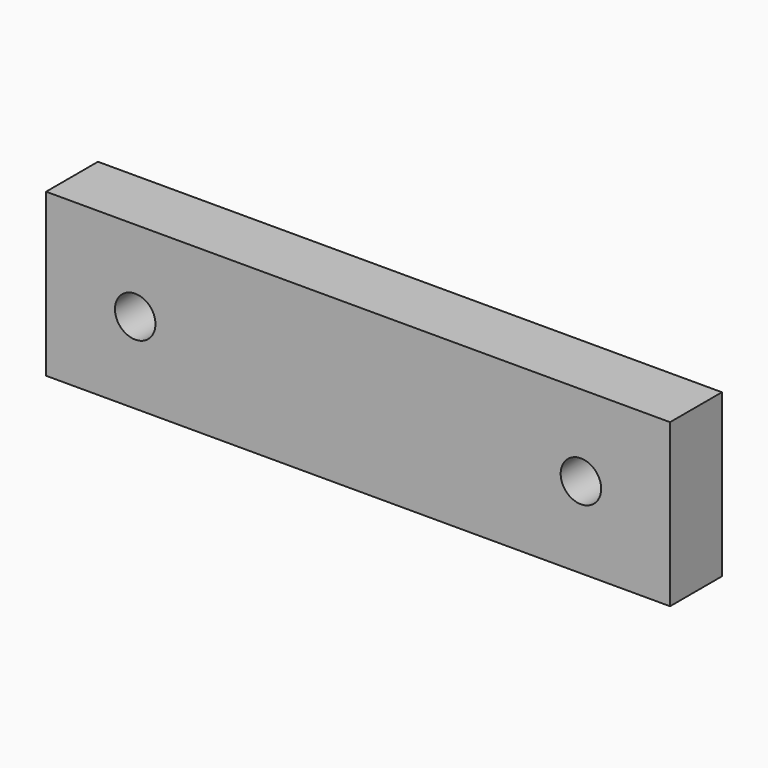
from build123d import *

# Parameters (mm, degrees)
F0_W     = 77
F0_H     = 20
F1_DEPTH = 8
F2_D     = 5
F2_DEPTH = 6
F2_TIP   = 1.5021515476


with BuildPart() as f1:
    # F0 (on Front) → F1 (new body)
    with BuildSketch(Plane.XZ):
        Rectangle(F0_W, F0_H)
    extrude(amount=-F1_DEPTH)

    # F2
    with Locations(Plane.XZ):
        with Locations((-27.5, 0), (27.5, 0)):
            Hole(F2_D / 2, depth=F2_DEPTH)
            with Locations((0, 0, -(F2_DEPTH + F2_TIP / 2))):  # 118° drill point
                Cone(0, F2_D / 2, F2_TIP, mode=Mode.SUBTRACT)


solid = f1.part
